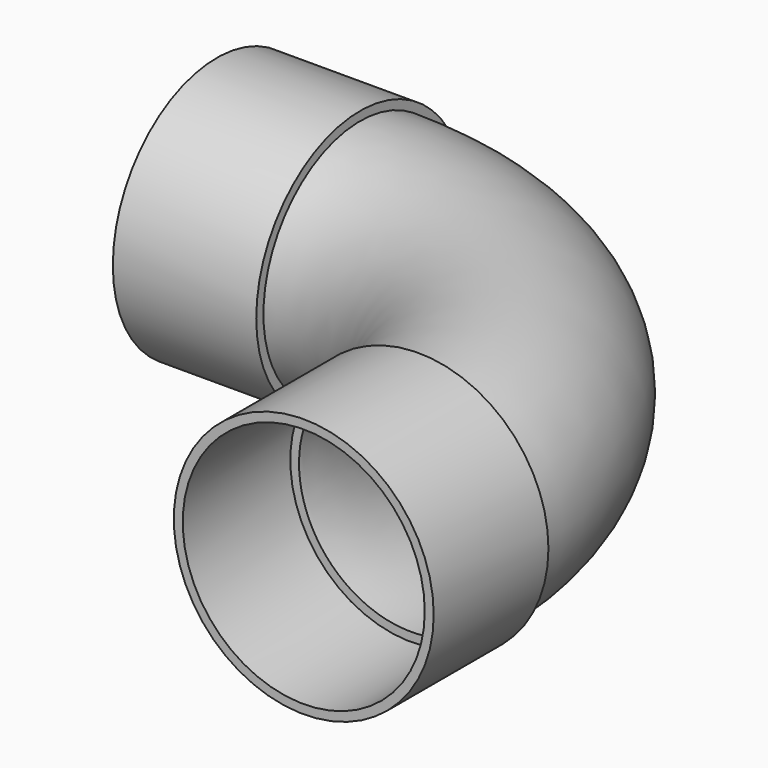
from build123d import *

# Parameters (mm, degrees)
F2_R     = 27
F4_R     = 29
F4_R_2   = 27
F5_DEPTH = 32
F6_R     = 29
F6_R_2   = 27
F7_DEPTH = 32
F8_T     = -2


with BuildPart() as f3:
    # F3: sweep along a path in F0
    with BuildLine(Plane.XY) as f3_path:
        Line((-32, 65), (0, 65))
        ThreePointArc((0, 65), (45.9619407771, 45.9619407771), (65, 0))
        Line((65, 0), (65, -32))
    # F2 (on plane+point) → F3 (sweep)
    with BuildSketch(Plane.YZ.offset(-32)):
        with Locations((65, 0)):
            Circle(F2_R)
    sweep(path=f3_path.line)

    # F4 (on face) → F5 (join)
    with BuildSketch(Plane(origin=(-32, 0, 0), x_dir=(0, -1, 0), z_dir=(-1, 0, 0))):
        with Locations((-65, 0)):
            Circle(F4_R)
        with Locations((-65, 0)):
            Circle(F4_R_2, mode=Mode.SUBTRACT)
        with Locations((-65, 0)):
            Circle(F4_R)
        with Locations((-65, 0)):
            Circle(F4_R_2, mode=Mode.SUBTRACT)
    extrude(amount=-F5_DEPTH)

    # F6 (on face) → F7 (join)
    with BuildSketch(Plane.XZ.offset(32)):
        with Locations((65, 0)):
            Circle(F6_R)
        with Locations((65, 0)):
            Circle(F6_R_2, mode=Mode.SUBTRACT)
        with Locations((65, 0)):
            Circle(F6_R_2)
    extrude(amount=-F7_DEPTH)

    # F8
    f8_openings = [f3.faces().sort_by_distance(p)[0] for p in [
        (65, -32, 0),
        (-32, 65, 0),
    ]]
    offset(amount=F8_T, openings=f8_openings, kind=Kind.INTERSECTION)


solid = f3.part
